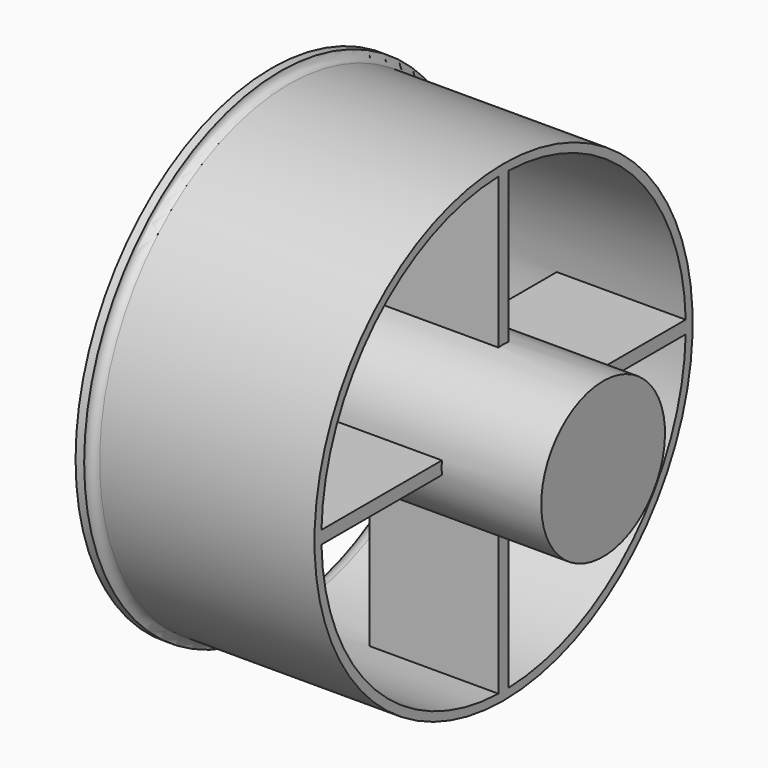
from build123d import *

# Parameters (mm, degrees)
F3_START = 10
F2_W     = 1.5
F2_H     = 19
F2_W_2   = 19
F2_H_2   = 1.5
F3_DEPTH = 15


with BuildPart() as f1:
    # F0 (on Front) → F1 (revolve)
    with BuildSketch(Plane.XZ):
        with BuildLine():
            ThreePointArc((-2, 28.5), (-1.4142135624, 27.0857864376), (0, 26.5))
            Line((0, 26.5), (25, 26.5))
            Line((25, 26.5), (25, 27.5))
            Line((25, 27.5), (0, 27.5))
            ThreePointArc((0, 27.5), (-0.7071067812, 27.7928932188), (-1, 28.5))
            Line((-1, 28.5), (-2, 28.5))
        make_face()
    revolve(axis=Axis((19.6649903227, 0, 0), (1, 0, 0)))



with BuildPart() as f1b:
    # F0 (on Front) → F1, piece 2 (revolve)
    with BuildSketch(Plane.XZ):
        with BuildLine():
            Line((0, 1), (0, 0))
            Line((0, 0), (36.5830052443, 0))
            Line((36.5830052443, 0), (36.5830052443, 9))
            Line((36.5830052443, 9), (10.5830052443, 9))
            ThreePointArc((10.5830052443, 9), (3.9497556635, 6.7749643874), (0, 1))
        make_face()
    revolve(axis=Axis((19.6649903227, 0, 0), (1, 0, 0)))


with BuildPart() as f1_1:
    add(f1.part)

    add(f1b.part)  # F3 merges F1b
    # F2 (on Right) → F3 (join)
    with BuildSketch(Plane.YZ.offset(F3_START)):
        with Locations((0, 17.5)):
            Rectangle(F2_W, F2_H)
        with Locations((-17.5, 0)):
            Rectangle(F2_W_2, F2_H_2)
        with Locations((0, -17.5)):
            Rectangle(F2_W, F2_H)
        with Locations((17.5, 0)):
            Rectangle(F2_W_2, F2_H_2)
    extrude(amount=F3_DEPTH)


solid = f1_1.part
